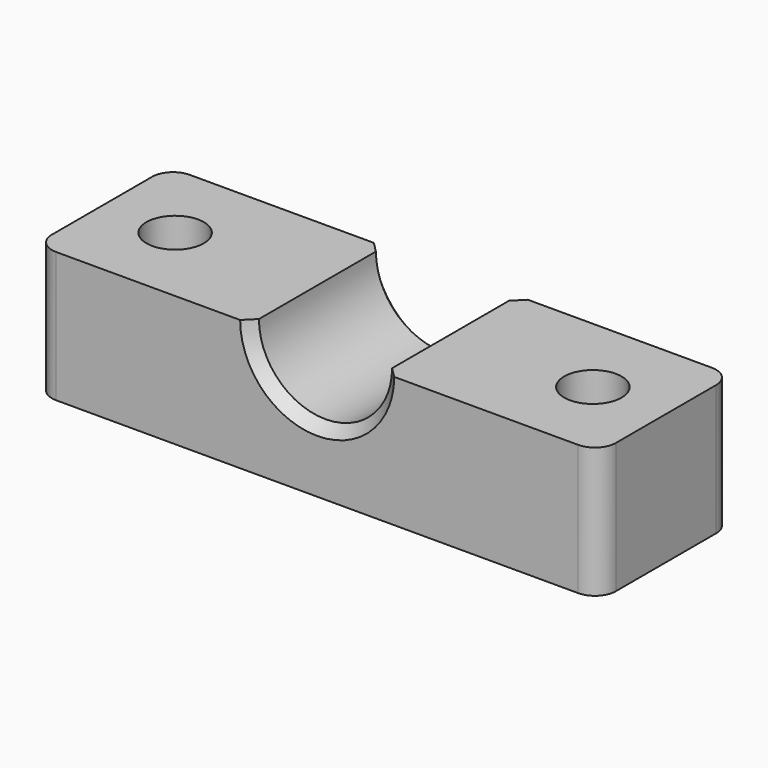
from build123d import *

# Parameters (mm, degrees)
F1_DEPTH = 16
F3_DEPTH = 12.501
F4_SIZE  = 1
F5_R     = 2


with BuildPart() as f1:
    # F0 (on Front) → F1 (new body)
    with BuildSketch(Plane.XZ):
        with BuildLine():
            Line((-6.375, 0), (-27, 0))
            Line((-27, 0), (-27, -12.5))
            Line((-27, -12.5), (27, -12.5))
            Line((27, -12.5), (27, 0))
            Line((27, 0), (6.375, 0))
            ThreePointArc((6.375, 0), (0, -6.375), (-6.375, 0))
        make_face()
    extrude(amount=F1_DEPTH)

    # F2 (on face) → F3 (cut, through all)
    with BuildSketch(Plane(origin=(0, 0, -12.5), x_dir=(1, 0, 0), z_dir=(0, 0, -1))):
        with BuildLine():
            Line((-22.75, 8), (-17.25, 8))
            ThreePointArc((-17.25, 8), (-20, 10.75), (-22.75, 8))
        make_face()
        with BuildLine():
            ThreePointArc((-22.75, 8), (-20, 5.25), (-17.25, 8))
            Line((-17.25, 8), (-22.75, 8))
        make_face()
        with BuildLine():
            ThreePointArc((22.75, 8), (20, 10.75), (17.25, 8))
            Line((17.25, 8), (22.75, 8))
        make_face()
        with BuildLine():
            Line((22.75, 8), (17.25, 8))
            ThreePointArc((17.25, 8), (20, 5.25), (22.75, 8))
        make_face()
    extrude(amount=-F3_DEPTH, mode=Mode.SUBTRACT)

    # F4
    f4_edges = [f1.edges().sort_by_distance(p)[0] for p in [
        (0, -16, -6.375),
        (0, 0, -6.375),
    ]]
    chamfer(f4_edges, length=F4_SIZE)

    # F5
    f5_edges = [f1.edges().sort_by_distance(p)[0] for p in [
        (-27, -16, -6.25),
        (27, -16, -6.25),
        (27, 0, -6.25),
        (-27, 0, -6.25),
    ]]
    fillet(f5_edges, radius=F5_R)


solid = f1.part
